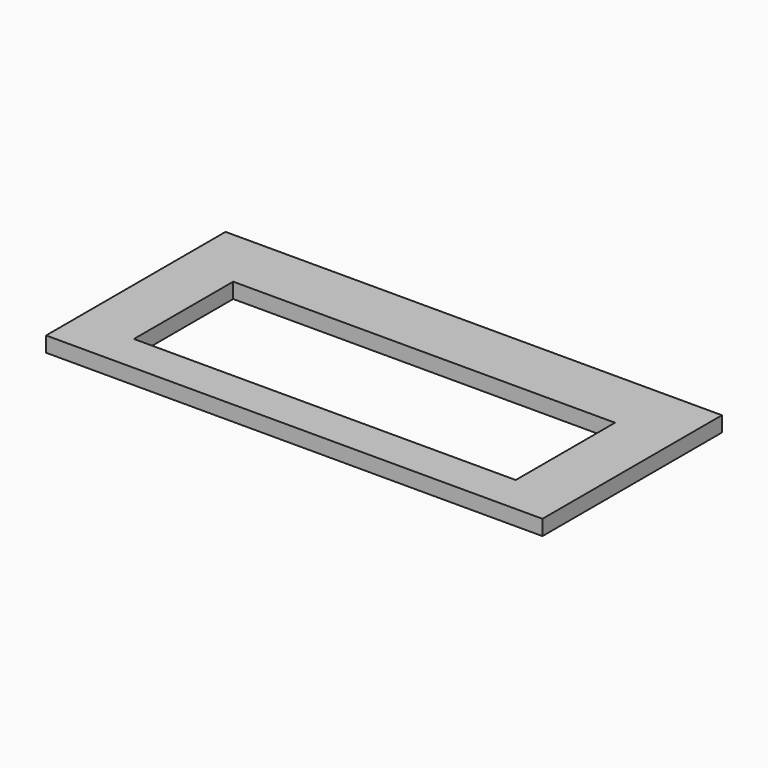
from build123d import *

# Parameters (mm, degrees)
F0_W     = 1040
F0_H     = 470
F1_DEPTH = 32
F2_W     = 800
F2_H     = 260
F3_DEPTH = 32.001


with BuildPart() as f1:
    # F0 (on Top) → F1 (new body)
    with BuildSketch(Plane.XY):
        Rectangle(F0_W, F0_H)
    extrude(amount=F1_DEPTH)

    # F2 (on Top) → F3 (cut, through all)
    with BuildSketch(Plane.XY):
        with Locations((0, -25)):
            Rectangle(F2_W, F2_H)
    extrude(amount=F3_DEPTH, mode=Mode.SUBTRACT)


solid = f1.part
